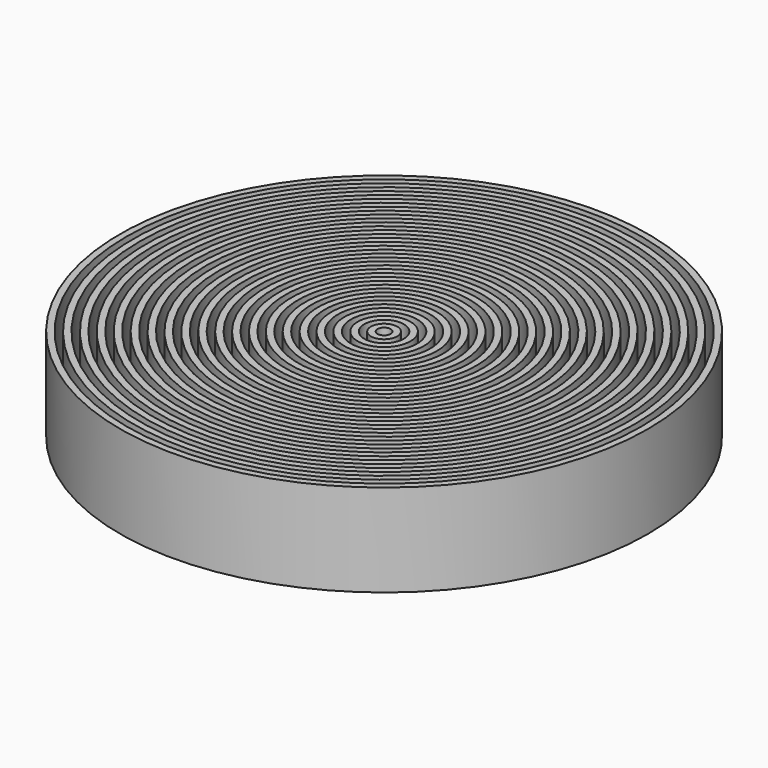
from build123d import *

# Parameters (mm, degrees)
F0_R     = 100
F1_DEPTH = 10
F2_R     = 100
F2_R_2   = 97.5
F2_R_3   = 95
F2_R_4   = 92.5
F2_R_5   = 90
F2_R_6   = 87.5
F2_R_7   = 85
F2_R_8   = 82.5
F2_R_9   = 80
F2_R_10  = 77.5
F2_R_11  = 75
F2_R_12  = 72.5
F2_R_13  = 70
F2_R_14  = 67.5
F2_R_15  = 65
F2_R_16  = 62.5
F2_R_17  = 60
F2_R_18  = 57.5
F2_R_19  = 55
F2_R_20  = 52.5
F2_R_21  = 50
F2_R_22  = 47.5
F2_R_23  = 45
F2_R_24  = 42.5
F2_R_25  = 40
F2_R_26  = 37.5
F2_R_27  = 35
F2_R_28  = 32.5
F2_R_29  = 30
F2_R_30  = 27.5
F2_R_31  = 25
F2_R_32  = 22.5
F2_R_33  = 20
F2_R_34  = 17.5
F2_R_35  = 15
F2_R_36  = 12.5
F2_R_37  = 10
F2_R_38  = 7.5
F2_R_39  = 5
F2_R_40  = 2.5
F3_DEPTH = 25
F4_R     = 41.973294
F5_DEPTH = 5


with BuildPart() as f1:
    # F0 (on Top) → F1 (new body)
    with BuildSketch(Plane.XY):
        Circle(F0_R)
    extrude(amount=F1_DEPTH)

    # F2 (on face) → F3 (join)
    with BuildSketch(Plane.XY.offset(10)):
        Circle(F2_R)
        Circle(F2_R_2, mode=Mode.SUBTRACT)
        Circle(F2_R_3)
        Circle(F2_R_4, mode=Mode.SUBTRACT)
        Circle(F2_R_5)
        Circle(F2_R_6, mode=Mode.SUBTRACT)
        Circle(F2_R_7)
        Circle(F2_R_8, mode=Mode.SUBTRACT)
        Circle(F2_R_9)
        Circle(F2_R_10, mode=Mode.SUBTRACT)
        Circle(F2_R_11)
        Circle(F2_R_12, mode=Mode.SUBTRACT)
        Circle(F2_R_13)
        Circle(F2_R_14, mode=Mode.SUBTRACT)
        Circle(F2_R_15)
        Circle(F2_R_16, mode=Mode.SUBTRACT)
        Circle(F2_R_17)
        Circle(F2_R_18, mode=Mode.SUBTRACT)
        Circle(F2_R_19)
        Circle(F2_R_20, mode=Mode.SUBTRACT)
        Circle(F2_R_21)
        Circle(F2_R_22, mode=Mode.SUBTRACT)
        Circle(F2_R_23)
        Circle(F2_R_24, mode=Mode.SUBTRACT)
        Circle(F2_R_25)
        Circle(F2_R_26, mode=Mode.SUBTRACT)
        Circle(F2_R_27)
        Circle(F2_R_28, mode=Mode.SUBTRACT)
        Circle(F2_R_29)
        Circle(F2_R_30, mode=Mode.SUBTRACT)
        Circle(F2_R_31)
        Circle(F2_R_32, mode=Mode.SUBTRACT)
        Circle(F2_R_33)
        Circle(F2_R_34, mode=Mode.SUBTRACT)
        Circle(F2_R_35)
        Circle(F2_R_36, mode=Mode.SUBTRACT)
        Circle(F2_R_37)
        Circle(F2_R_38, mode=Mode.SUBTRACT)
        Circle(F2_R_39)
        Circle(F2_R_40, mode=Mode.SUBTRACT)
    extrude(amount=F3_DEPTH)

    # F4 (on face) → F5 (join)
    with BuildSketch(Plane(origin=(0, 0, 0), x_dir=(1, 0, 0), z_dir=(0, 0, -1))):
        Circle(F4_R)
    extrude(amount=F5_DEPTH)


solid = f1.part
